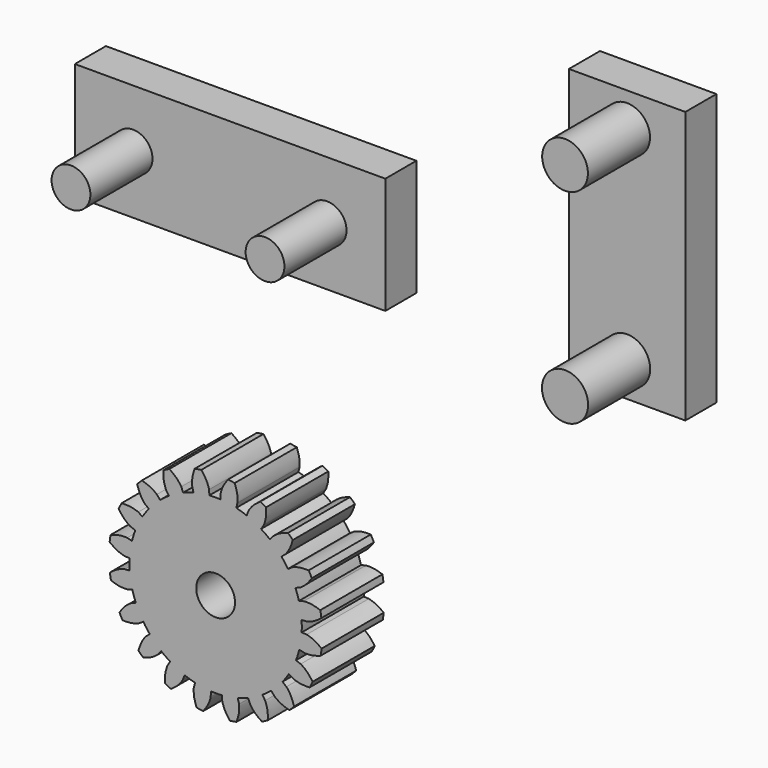
from build123d import *

# Parameters (mm, degrees)
F1_DEPTH  = 20
F3_COUNT  = 20
F4_R      = 5
F5_DEPTH  = 20
F6_W      = 80
F6_H      = 30
F6_R      = 5
F7_DEPTH  = 10
F8_DEPTH  = 30
F9_W      = 30
F9_H      = 70
F9_R      = 5.9477570084
F9_R_2    = 5.8922270148
F10_DEPTH = 10
F11_DEPTH = 30


with BuildPart() as f1:
    # F0 (on Front) → F1 (new body)
    with BuildSketch(Plane.XZ):
        with BuildLine():
            add(Edge.make_bspline(
                [(-1.699768999, 23.4310426646), (-1.7058866777, 23.4815759333), (-1.7226400288, 23.619962018), (-1.9000078839, 24.1436801517), (-2.172777769, 24.9498743743), (-2.7628195547, 26.0206083171), (-3.3685247379, 26.8242339436), (-3.6903799018, 27.2512586164)],
                knots=[0, 0, 0, 0, 0.094266159, 0.2581492352, 0.4680718783, 0.7173479483, 1, 1, 1, 1], degree=3))
            ThreePointArc((-3.6903799018, 27.2512586164), (-4.546422426, 27.1215789202), (-5.3979583522, 26.9650152165))
            add(Edge.make_bspline(
                [(-6.0339855051, 22.7044928136), (-6.0446810898, 22.7542586825), (-6.0739711027, 22.8905432317), (-6.0770828643, 23.443472121), (-6.0821228337, 24.2945462267), (-5.8735004818, 25.4991611857), (-5.5629672279, 26.4563769476), (-5.3979583522, 26.9650152165)],
                knots=[0, 0, 0, 0, 0.094266159, 0.2581492352, 0.4680718783, 0.7173479483, 1, 1, 1, 1], degree=3))
            Line((-6.0339855051, 22.7044928136), (-5.7019823607, 21.4552417175))
            ThreePointArc((-5.7019823607, 21.4552417175), (-3.6702028312, 21.8945109828), (-1.6062439728, 22.1418151988))
            Line((-1.6062439728, 22.1418151988), (-1.699768999, 23.4310426646))
        make_face()
    extrude(amount=F1_DEPTH)


with BuildPart() as f3_1:
    # F3: instance of F1
    add(f1.part.rotate(Axis((0, 4.0689753368, 0), (0, 1, 0)), 1 * 360 / F3_COUNT))


with BuildPart() as f3_2:
    # F3: instance of F1
    add(f1.part.rotate(Axis((0, 4.0689753368, 0), (0, 1, 0)), 2 * 360 / F3_COUNT))


with BuildPart() as f3_3:
    # F3: instance of F1
    add(f1.part.rotate(Axis((0, 4.0689753368, 0), (0, 1, 0)), 3 * 360 / F3_COUNT))


with BuildPart() as f3_4:
    # F3: instance of F1
    add(f1.part.rotate(Axis((0, 4.0689753368, 0), (0, 1, 0)), 4 * 360 / F3_COUNT))


with BuildPart() as f3_5:
    # F3: instance of F1
    add(f1.part.rotate(Axis((0, 4.0689753368, 0), (0, 1, 0)), 5 * 360 / F3_COUNT))


with BuildPart() as f3_6:
    # F3: instance of F1
    add(f1.part.rotate(Axis((0, 4.0689753368, 0), (0, 1, 0)), 6 * 360 / F3_COUNT))


with BuildPart() as f3_7:
    # F3: instance of F1
    add(f1.part.rotate(Axis((0, 4.0689753368, 0), (0, 1, 0)), 7 * 360 / F3_COUNT))


with BuildPart() as f3_8:
    # F3: instance of F1
    add(f1.part.rotate(Axis((0, 4.0689753368, 0), (0, 1, 0)), 8 * 360 / F3_COUNT))


with BuildPart() as f3_9:
    # F3: instance of F1
    add(f1.part.rotate(Axis((0, 4.0689753368, 0), (0, 1, 0)), 9 * 360 / F3_COUNT))


with BuildPart() as f3_10:
    # F3: instance of F1
    add(f1.part.rotate(Axis((0, 4.0689753368, 0), (0, 1, 0)), 10 * 360 / F3_COUNT))


with BuildPart() as f3_11:
    # F3: instance of F1
    add(f1.part.rotate(Axis((0, 4.0689753368, 0), (0, 1, 0)), 11 * 360 / F3_COUNT))


with BuildPart() as f3_12:
    # F3: instance of F1
    add(f1.part.rotate(Axis((0, 4.0689753368, 0), (0, 1, 0)), 12 * 360 / F3_COUNT))


with BuildPart() as f3_13:
    # F3: instance of F1
    add(f1.part.rotate(Axis((0, 4.0689753368, 0), (0, 1, 0)), 13 * 360 / F3_COUNT))


with BuildPart() as f3_14:
    # F3: instance of F1
    add(f1.part.rotate(Axis((0, 4.0689753368, 0), (0, 1, 0)), 14 * 360 / F3_COUNT))


with BuildPart() as f3_15:
    # F3: instance of F1
    add(f1.part.rotate(Axis((0, 4.0689753368, 0), (0, 1, 0)), 15 * 360 / F3_COUNT))


with BuildPart() as f3_16:
    # F3: instance of F1
    add(f1.part.rotate(Axis((0, 4.0689753368, 0), (0, 1, 0)), 16 * 360 / F3_COUNT))


with BuildPart() as f3_17:
    # F3: instance of F1
    add(f1.part.rotate(Axis((0, 4.0689753368, 0), (0, 1, 0)), 17 * 360 / F3_COUNT))


with BuildPart() as f3_18:
    # F3: instance of F1
    add(f1.part.rotate(Axis((0, 4.0689753368, 0), (0, 1, 0)), 18 * 360 / F3_COUNT))


with BuildPart() as f3_19:
    # F3: instance of F1
    add(f1.part.rotate(Axis((0, 4.0689753368, 0), (0, 1, 0)), 19 * 360 / F3_COUNT))


with BuildPart() as f1_1:
    add(f1.part)

    add(f3_1.part)  # F5 merges F3_1

    add(f3_2.part)  # F5 merges F3_2

    add(f3_3.part)  # F5 merges F3_3

    add(f3_4.part)  # F5 merges F3_4

    add(f3_5.part)  # F5 merges F3_5

    add(f3_6.part)  # F5 merges F3_6

    add(f3_7.part)  # F5 merges F3_7

    add(f3_8.part)  # F5 merges F3_8

    add(f3_9.part)  # F5 merges F3_9

    add(f3_10.part)  # F5 merges F3_10

    add(f3_11.part)  # F5 merges F3_11

    add(f3_12.part)  # F5 merges F3_12

    add(f3_13.part)  # F5 merges F3_13

    add(f3_14.part)  # F5 merges F3_14

    add(f3_15.part)  # F5 merges F3_15

    add(f3_16.part)  # F5 merges F3_16

    add(f3_17.part)  # F5 merges F3_17

    add(f3_18.part)  # F5 merges F3_18

    add(f3_19.part)  # F5 merges F3_19
    # F4 (on Front) → F5 (join)
    with BuildSketch(Plane.XZ):
        with BuildLine():
            Line((-3.8769773673, 23.5127285123), (-4.5998001373, 21.7182374676))
            ThreePointArc((-4.5998001373, 21.7182374676), (-6.9950414638, 21.0691574326), (-9.3028733587, 20.1567990334))
            ThreePointArc((-9.3028733587, 20.1567990334), (-10.2048632676, 19.715495573), (-11.0859743596, 19.2338548528))
            ThreePointArc((-11.0859743596, 19.2338548528), (-13.1634074697, 17.8763727805), (-15.0763517816, 16.295509104))
            ThreePointArc((-15.0763517816, 16.295509104), (-15.7978248931, 15.5970743618), (-16.486976171, 14.8667285149))
            ThreePointArc((-16.486976171, 14.8667285149), (-18.0432474377, 12.9337242086), (-19.374051849, 10.839101206))
            ThreePointArc((-19.374051849, 10.839101206), (-19.8443853482, 9.9519028408), (-20.2741178833, 9.0443432074))
            ThreePointArc((-20.2741178833, 9.0443432074), (-21.1568886317, 6.7250325966), (-21.7752847344, 4.3216865615))
            ThreePointArc((-21.7752847344, 4.3216865615), (-21.9484391014, 3.3325697307), (-22.0766876791, 2.3366345711))
            ThreePointArc((-22.0766876791, 2.3366345711), (-22.1995461578, -0.141952062), (-22.0450010327, -2.6187648746))
            ThreePointArc((-22.0450010327, -2.6187648746), (-21.9040267117, -3.6129785239), (-21.7182374676, -4.5998001373))
            ThreePointArc((-21.7182374676, -4.5998001373), (-21.0691574326, -6.9950414638), (-20.1567990334, -9.3028733587))
            ThreePointArc((-20.1567990334, -9.3028733587), (-19.715495573, -10.2048632676), (-19.2338548528, -11.0859743596))
            ThreePointArc((-19.2338548528, -11.0859743596), (-17.8763727805, -13.1634074697), (-16.295509104, -15.0763517816))
            ThreePointArc((-16.295509104, -15.0763517816), (-15.5970743618, -15.7978248931), (-14.8667285149, -16.486976171))
            ThreePointArc((-14.8667285149, -16.486976171), (-12.9337242086, -18.0432474377), (-10.839101206, -19.374051849))
            ThreePointArc((-10.839101206, -19.374051849), (-9.9519028408, -19.8443853482), (-9.0443432074, -20.2741178833))
            ThreePointArc((-9.0443432074, -20.2741178833), (-6.7250325966, -21.1568886317), (-4.3216865615, -21.7752847344))
            ThreePointArc((-4.3216865615, -21.7752847344), (-3.3325697307, -21.9484391014), (-2.3366345711, -22.0766876791))
            ThreePointArc((-2.3366345711, -22.0766876791), (0.141952062, -22.1995461578), (2.6187648746, -22.0450010327))
            ThreePointArc((2.6187648746, -22.0450010327), (3.6129785239, -21.9040267117), (4.5998001373, -21.7182374676))
            ThreePointArc((4.5998001373, -21.7182374676), (6.9950414638, -21.0691574326), (9.3028733587, -20.1567990334))
            ThreePointArc((9.3028733587, -20.1567990334), (10.2048632676, -19.715495573), (11.0859743596, -19.2338548528))
            ThreePointArc((11.0859743596, -19.2338548528), (13.1634074697, -17.8763727805), (15.0763517816, -16.295509104))
            ThreePointArc((15.0763517816, -16.295509104), (15.7978248931, -15.5970743618), (16.486976171, -14.8667285149))
            ThreePointArc((16.486976171, -14.8667285149), (18.0432474377, -12.9337242086), (19.374051849, -10.839101206))
            ThreePointArc((19.374051849, -10.839101206), (19.8443853482, -9.9519028408), (20.2741178833, -9.0443432074))
            ThreePointArc((20.2741178833, -9.0443432074), (21.1568886317, -6.7250325966), (21.7752847344, -4.3216865615))
            ThreePointArc((21.7752847344, -4.3216865615), (21.9484391014, -3.3325697307), (22.0766876791, -2.3366345711))
            ThreePointArc((22.0766876791, -2.3366345711), (22.1995461578, 0.141952062), (22.0450010327, 2.6187648746))
            ThreePointArc((22.0450010327, 2.6187648746), (21.9040267117, 3.6129785239), (21.7182374676, 4.5998001373))
            ThreePointArc((21.7182374676, 4.5998001373), (21.0691574326, 6.9950414638), (20.1567990334, 9.3028733587))
            ThreePointArc((20.1567990334, 9.3028733587), (19.715495573, 10.2048632676), (19.2338548528, 11.0859743596))
            ThreePointArc((19.2338548528, 11.0859743596), (17.8763727805, 13.1634074697), (16.295509104, 15.0763517816))
            ThreePointArc((16.295509104, 15.0763517816), (15.5970743618, 15.7978248931), (14.8667285149, 16.486976171))
            ThreePointArc((14.8667285149, 16.486976171), (12.9337242086, 18.0432474377), (10.839101206, 19.374051849))
            ThreePointArc((10.839101206, 19.374051849), (9.9519028408, 19.8443853482), (9.0443432074, 20.2741178833))
            ThreePointArc((9.0443432074, 20.2741178833), (6.7250325966, 21.1568886317), (4.3216865615, 21.7752847344))
            ThreePointArc((4.3216865615, 21.7752847344), (3.3325697307, 21.9484391014), (2.3366345711, 22.0766876791))
            ThreePointArc((2.3366345711, 22.0766876791), (-0.141952062, 22.1995461578), (-2.6187648746, 22.0450010327))
            Line((-2.6187648746, 22.0450010327), (-3.8769773673, 23.5127285123))
        make_face()
        Circle(F4_R, mode=Mode.SUBTRACT)
    extrude(amount=F5_DEPTH)


with BuildPart() as f7:
    # F6 (on Front) → F7 (new body)
    with BuildSketch(Plane.XZ):
        with Locations((-4.2738628485, 87.0581149966)):
            Rectangle(F6_W, F6_H)
        with Locations((-29.2738628485, 87.0581149966)):
            Circle(F6_R, mode=Mode.SUBTRACT)
        with Locations((20.7261371515, 87.0581149966)):
            Circle(F6_R, mode=Mode.SUBTRACT)
        with Locations((-29.2738628485, 87.0581149966)):
            Circle(F6_R)
        with Locations((20.7261371515, 87.0581149966)):
            Circle(F6_R)
    extrude(amount=F7_DEPTH)

    # F6 (on Front) → F8 (join)
    with BuildSketch(Plane.XZ):
        with Locations((-29.2738628485, 87.0581149966)):
            Circle(F6_R)
        with Locations((20.7261371515, 87.0581149966)):
            Circle(F6_R)
    extrude(amount=F8_DEPTH)


with BuildPart() as f10:
    # F9 (on Front) → F10 (new body)
    with BuildSketch(Plane.XZ):
        with Locations((98.0327278376, 107.3391302307)):
            Rectangle(F9_W, F9_H)
        with Locations((98.0327278376, 81.0891302307)):
            Circle(F9_R, mode=Mode.SUBTRACT)
        with Locations((98.0327278376, 133.5891302307)):
            Circle(F9_R_2, mode=Mode.SUBTRACT)
    extrude(amount=F10_DEPTH)

    # F9 (on Front) → F11 (join)
    with BuildSketch(Plane.XZ):
        with Locations((98.0327278376, 133.5891302307)):
            Circle(F9_R_2)
        with Locations((98.0327278376, 81.0891302307)):
            Circle(F9_R)
    extrude(amount=F11_DEPTH)


solid = Compound([f1_1.part, f7.part, f10.part])
